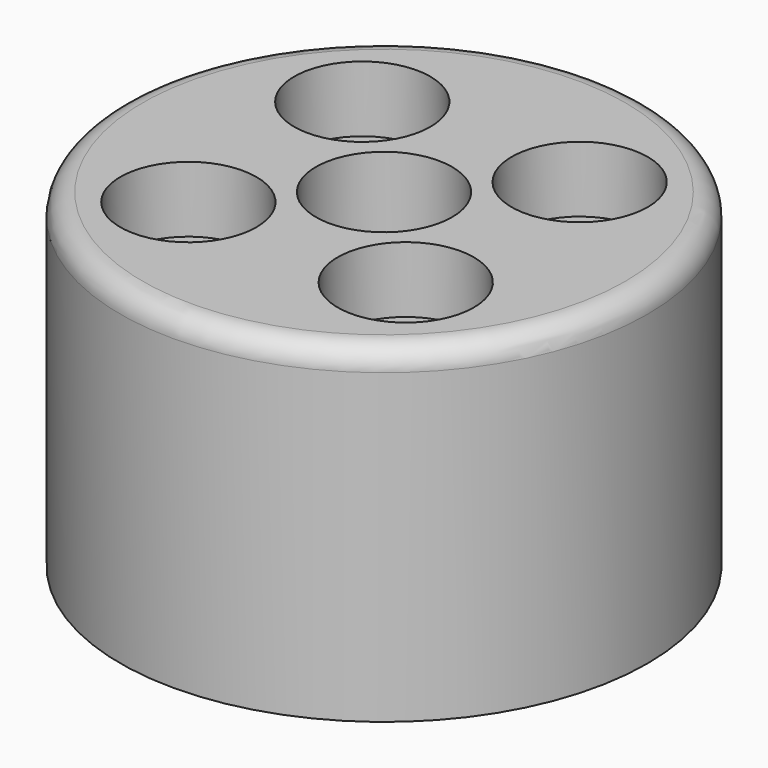
from build123d import *

# Parameters (mm, degrees)
SKETCH_R        = 12
PAD_DEPTH       = 15
SKETCH001_R     = 1.65
POCKET_DEPTH    = 15.001
POCKET001_DEPTH = 8
SKETCH003_R     = 3.1
POCKET002_DEPTH = 7.001
SKETCH004_R     = 3.1
PAD001_DEPTH    = 0.2
SKETCH005_R     = 3.1
POCKET003_DEPTH = 3
FILLET_R        = 1
SKETCH006_R     = 1.65
PAD002_DEPTH    = 0.2


with BuildPart() as part:
    # Sketch → Pad (new body)
    with BuildSketch(Plane.XY):
        Circle(SKETCH_R)
    extrude(amount=PAD_DEPTH)

    # Sketch001 (on Face2 of Pad) → Pocket (cut, through all)
    with BuildSketch(Plane(origin=(0, 0, 0), x_dir=(1, 0, 0), z_dir=(0, 0, -1))):
        with Locations((-4.949747, 4.949747)):
            Circle(SKETCH001_R)
        with Locations((4.949747, 4.949747)):
            Circle(SKETCH001_R)
        with Locations((4.949747, -4.949747)):
            Circle(SKETCH001_R)
        with Locations((-4.949747, -4.949747)):
            Circle(SKETCH001_R)
    extrude(amount=-POCKET_DEPTH, mode=Mode.SUBTRACT)

    # Sketch002 (on Face2 of Pocket) → Pocket001 (cut)
    with BuildSketch(Plane(origin=(0, 0, 0), x_dir=(1, 0, 0), z_dir=(0, 0, -1))):
        Polygon((5.1, 2.944486), (0, 5.888973), (-5.1, 2.944486), (-5.1, -2.944486), (0, -5.888973), (5.1, -2.944486), align=None)
    extrude(amount=-POCKET001_DEPTH, mode=Mode.SUBTRACT)

    # Sketch003 (on Face14 of Pocket001) → Pocket002 (cut, through all)
    with BuildSketch(Plane(origin=(0, 0, 8), x_dir=(1, 0, 0), z_dir=(0, 0, -1))):
        Circle(SKETCH003_R)
    extrude(amount=-POCKET002_DEPTH, mode=Mode.SUBTRACT)

    # Sketch004 (on Face15 of Pocket002) → Pad001 (join)
    with BuildSketch(Plane(origin=(0, 0, 8), x_dir=(1, 0, 0), z_dir=(0, 0, -1))):
        Circle(SKETCH004_R)
    extrude(amount=-PAD001_DEPTH)

    # Sketch005 (on Face3 of Pad001) → Pocket003 (cut)
    with BuildSketch(Plane.XY.offset(15)):
        with Locations((4.949747, 4.949747)):
            Circle(SKETCH005_R)
        with Locations((4.949747, -4.949747)):
            Circle(SKETCH005_R)
        with Locations((-4.949747, -4.949747)):
            Circle(SKETCH005_R)
        with Locations((-4.949747, 4.949747)):
            Circle(SKETCH005_R)
    extrude(amount=-POCKET003_DEPTH, mode=Mode.SUBTRACT)

    # Fillet
    fillet_edges = [part.edges().sort_by_distance(p)[0] for p in [
        (-12, 0, 15),
    ]]
    fillet(fillet_edges, radius=FILLET_R)

    # Sketch006 (on Face22 of Fillet) → Pad002 (join)
    with BuildSketch(Plane(origin=(0, 0, 8), x_dir=(1, 0, 0), z_dir=(0, 0, -1))):
        with Locations((-4.949747, 4.949747)):
            Circle(SKETCH006_R)
        with Locations((4.949747, 4.949747)):
            Circle(SKETCH006_R)
        with Locations((4.949747, -4.949747)):
            Circle(SKETCH006_R)
        with Locations((-4.949747, -4.949747)):
            Circle(SKETCH006_R)
    extrude(amount=-PAD002_DEPTH)


solid = part.part
